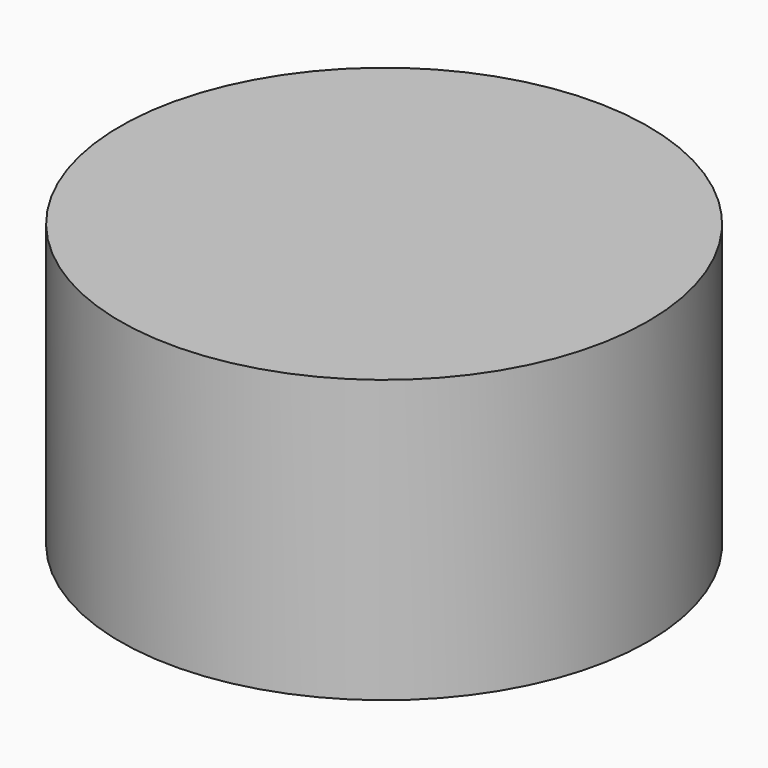
from build123d import *

# Parameters (mm, degrees)
PRISM012_DEPTH    = 1.1
CYLINDER060_R     = 2.34
CYLINDER060_DEPTH = 2.5


with BuildPart() as prism012:
    # Prism012 → Prism012 (new body)
    with BuildSketch(Plane.XY.offset(-23)):
        Polygon((1, 0), (0.5, 0.866025), (-0.5, 0.866025), (-1, 0), (-0.5, -0.866025), (0.5, -0.866025), align=None)
    extrude(amount=PRISM012_DEPTH)


with BuildPart() as cut047:
    # Cylinder060 → Cylinder060 (new body)
    with BuildSketch(Plane.XY.offset(-22.5)):
        Circle(CYLINDER060_R)
    extrude(amount=CYLINDER060_DEPTH)

    # Cut047: cut Prism012
    add(prism012.part, mode=Mode.SUBTRACT)


solid = cut047.part
